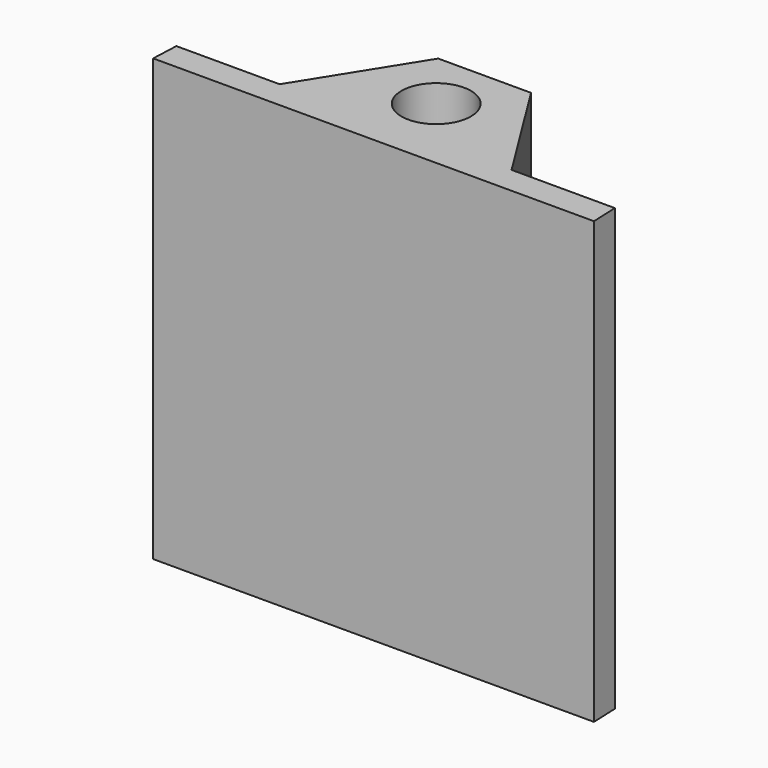
from build123d import *

# Parameters (mm, degrees)
F1_DEPTH = 25.4
F2_R     = 4
F3_DEPTH = 25.4


with BuildPart() as f1:
    # F0 (on Top) → F1 (new body, symmetric)
    with BuildSketch(Plane.XY):
        Polygon((-25.4, 0), (0, 0), (25.4, 0), (25.266184, 3.175), (0, 3.175), (-25.266184, 3.175), align=None)
    extrude(amount=F1_DEPTH, both=True)

    # F2 (on Top) → F3 (join, symmetric)
    with BuildSketch(Plane.XY):
        Polygon((-5.34885, 16), (-15.349967, 0), (15.349967, 0), (5.34885, 16), (0, 16), align=None)
        with Locations((0, 9.023245)):
            Circle(F2_R, mode=Mode.SUBTRACT)
    extrude(amount=F3_DEPTH, both=True)


solid = f1.part
